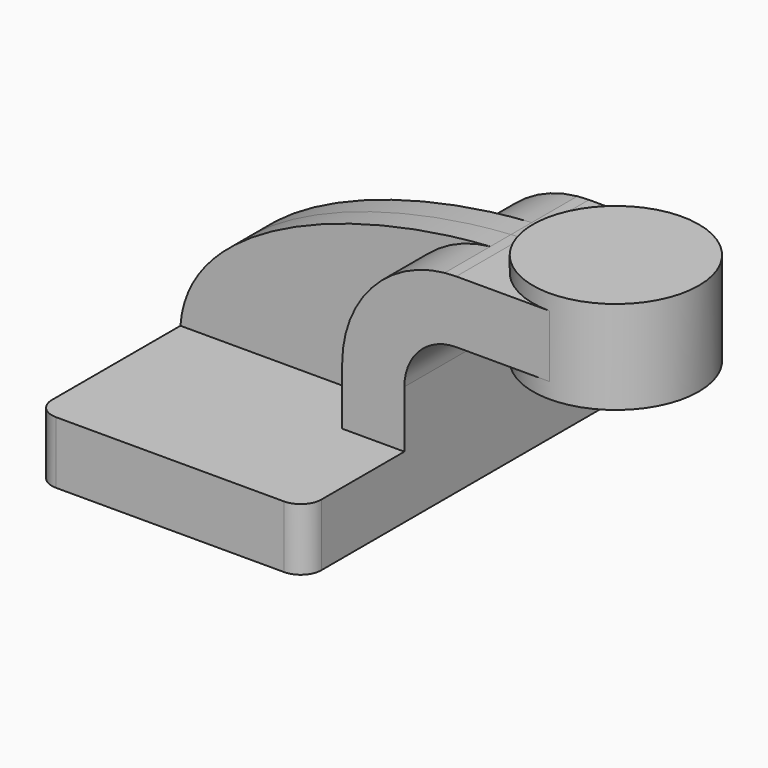
from build123d import *

# Parameters (mm, degrees)
F1_DEPTH = 63.5
F2_DEPTH = 25.4
F0_W     = 25.4
F0_H     = 19.05
F3_DEPTH = 25.4
F4_DEPTH = 7.9375
F6_R     = 6.35


with BuildPart() as f1:
    # F0 (on Front) → F1 (new body, symmetric)
    with BuildSketch(Plane.XZ):
        Polygon((-41.275, 9.525), (-41.275, -9.525), (41.275, -9.525), (41.275, 9.525), (22.225, 9.525), align=None)
    extrude(amount=F1_DEPTH, both=True)

    # F0 (on Front) → F2 (join, symmetric)
    with BuildSketch(Plane.XZ):
        with BuildLine():
            Line((22.225, 9.525), (41.275, 9.525))
            Line((41.275, 9.525), (41.275, 27.0002))
            ThreePointArc((41.275, 27.0002), (45.9246798487, 38.2255201513), (57.15, 42.8752))
            Line((57.15, 42.8752), (60.325, 42.8752))
            Line((60.325, 42.8752), (60.325, 61.9252))
            Line((60.325, 61.9252), (57.15, 61.9252))
            add(Edge.make_bspline(
                [(53.6196332625, 61.7463096484), (54.8063742239, 61.8190464484), (55.9836636447, 61.878690137), (57.15, 61.9252)],
                knots=[108.3511799564, 108.3511799564, 108.3511799564, 108.3511799564, 111.5045361635, 111.5045361635, 111.5045361635, 111.5045361635], degree=3))
            ThreePointArc((53.6196332625, 61.7463096484), (31.2361650531, 50.4144858816), (22.225, 27.0002))
            Line((22.225, 27.0002), (22.225, 9.525))
        make_face()
    extrude(amount=F2_DEPTH, both=True)

    # F0 (on Front) → F3 (join, symmetric)
    with BuildSketch(Plane.XZ):
        with Locations((73.025, 52.4002)):
            Rectangle(F0_W, F0_H)
    extrude(amount=F3_DEPTH, both=True)

    # F0 (on Front) → F4 (join, symmetric)
    with BuildSketch(Plane.XZ):
        with BuildLine():
            add(Edge.make_bspline(
                [(-41.275, 9.525), (-39.0935689496, 41.2893669107), (12.8425135763, 59.2470302808), (53.6196332625, 61.7463096484)],
                knots=[0, 0, 0, 0, 108.3511799564, 108.3511799564, 108.3511799564, 108.3511799564], degree=3))
            Line((-41.275, 9.525), (22.225, 9.525))
            Line((22.225, 9.525), (22.225, 27.0002))
            ThreePointArc((22.225, 27.0002), (31.2361650531, 50.4144858816), (53.6196332625, 61.7463096484))
        make_face()
    extrude(amount=F4_DEPTH, both=True)

    # F0 (on Front) → F5 (revolve)
    with BuildSketch(Plane.XZ):
        Polygon((85.725, 66.675), (85.725, 61.9252), (85.725, 42.8752), (85.725, 38.1), (111.125, 38.1), (111.125, 66.675), align=None)
    revolve(axis=Axis((85.725, 0, 52.3875), (0, 0, 1)))

    # F6
    f6_edges = [f1.edges().sort_by_distance(p)[0] for p in [
        (41.275, -63.5, 0),
        (41.275, 63.5, 0),
        (-41.275, -63.5, 0),
        (-41.275, 63.5, 0),
    ]]
    fillet(f6_edges, radius=F6_R)


solid = f1.part
